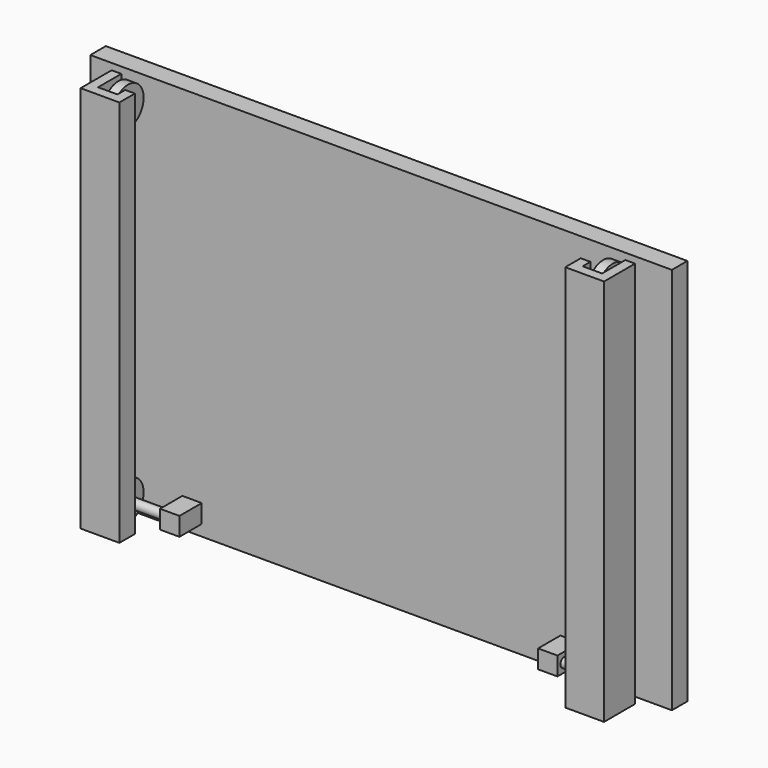
from build123d import *

# Parameters (mm, degrees)
F0_W      = 381
F0_H      = 25.4
F1_DEPTH  = 508
F3_R      = 25.4
F4_DEPTH  = 6.35
F10_R     = 6.35
F11_DEPTH = 50.8
F13_W     = 36.5209167916
F13_H     = 24.13
F14_DEPTH = 25.4
F17_R     = 6.35
F18_DEPTH = 6.35


with BuildPart() as f1:
    # F0 (on Top) → F1 (new body)
    with BuildSketch(Plane.XY):
        with Locations((190.5, -12.7)):
            Rectangle(F0_W, F0_H)
        with Locations((571.5, -12.7)):
            Rectangle(F0_W, F0_H)
    extrude(amount=F1_DEPTH)


with BuildPart() as f1b:
    # F0 (on Top) → F1, piece 2 (new body)
    with BuildSketch(Plane.XY):
        Polygon((38.1, -38.1), (38.1, -88.9), (88.9, -88.9), (88.9, -63.5), (76.2, -63.5), (76.2, -76.2), (50.8, -76.2), (50.8, -38.1), align=None)
    extrude(amount=F1_DEPTH)


with BuildPart() as f1c:
    # F0 (on Top) → F1, piece 3 (new body)
    with BuildSketch(Plane.XY):
        Polygon((685.8, -63.5), (673.1, -63.5), (673.1, -88.9), (723.9, -88.9), (723.9, -38.1), (711.2, -38.1), (711.2, -76.2), (685.8, -76.2), align=None)
    extrude(amount=F1_DEPTH)


with BuildPart() as f4:
    # F3 (on offset) → F4 (new body, symmetric)
    with BuildSketch(Plane(origin=(63.5, 0, 0), x_dir=(0, -1, 0), z_dir=(-1, 0, 0))):
        with Locations((50.8, 26.4491215348)):
            Circle(F3_R)
    extrude(amount=F4_DEPTH, both=True)


with BuildPart() as f6_1:
    # F6: instance of F4
    add(f4.part.mirror(Plane(origin=(381, -12.7, 254), x_dir=(0, -1, 0), z_dir=(-1, 0, 0))))


with BuildPart() as f6_2:
    # F6: instance of F1b
    add(f1b.part.mirror(Plane(origin=(381, -12.7, 254), x_dir=(0, -1, 0), z_dir=(-1, 0, 0))))


with BuildPart() as f8_1:
    # F8: instance of F4
    add(f4.part.mirror(Plane(origin=(381, -12.7, 254), x_dir=(1, 0, 0), z_dir=(0, 0, -1))))


with BuildPart() as f8_2:
    # F8: instance of F6_1
    add(f6_1.part.mirror(Plane(origin=(381, -12.7, 254), x_dir=(1, 0, 0), z_dir=(0, 0, -1))))


with BuildPart() as f4_1:
    add(f4.part)

    # F10 (on offset) → F11 (join)
    with BuildSketch(Plane.YZ.offset(69.85)):
        with Locations((-50.8, 26.4491215348)):
            Circle(F10_R)
    extrude(amount=F11_DEPTH)

    # F13 (on offset) → F14 (join)
    with BuildSketch(Plane.YZ.offset(120.65)):
        with Locations((-43.7268996611, 26.6924910247)):
            Rectangle(F13_W, F13_H)
    extrude(amount=F14_DEPTH)


with BuildPart() as f15_1:
    # F15: instance of F4
    add(f4_1.part.mirror(Plane(origin=(381, -12.7, 254), x_dir=(0, -1, 0), z_dir=(-1, 0, 0))))


with BuildPart() as f15_2:
    # F15: instance of F8_1
    add(f8_1.part.mirror(Plane(origin=(381, -12.7, 254), x_dir=(0, -1, 0), z_dir=(-1, 0, 0))))


with BuildPart() as f18:
    # F17 (on offset) → F18 (new body, through all)
    with BuildSketch(Plane(origin=(57.15, 0, 0), x_dir=(0, -1, 0), z_dir=(-1, 0, 0))):
        with Locations((50.8, 481.5508784652)):
            Circle(F17_R)
    extrude(amount=F18_DEPTH)


with BuildPart() as f19_1:
    # F19: instance of F18
    add(f18.part.mirror(Plane(origin=(381, -12.7, 254), x_dir=(0, -1, 0), z_dir=(-1, 0, 0))))


solid = Compound([f1.part, f1b.part, f1c.part, f6_1.part, f6_2.part, f8_1.part, f8_2.part, f4_1.part, f15_1.part, f15_2.part, f18.part, f19_1.part])
